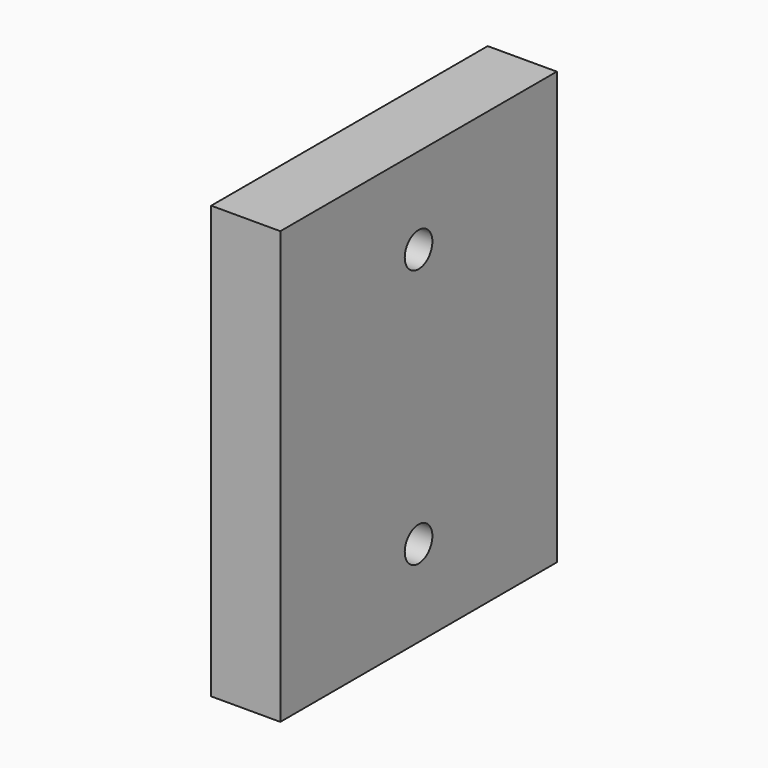
from build123d import *

# Parameters (mm, degrees)
CYLINDER029_R           = 2
CYLINDER029_DEPTH       = 8
CYLINDER029_PITCH_ANGLE = 90
ARRAY027_Z_COUNT        = 2
ARRAY027_Z_PITCH        = 30
BOX017_W                = 8
BOX017_H                = 40
BOX017_DEPTH            = 50


with BuildPart() as array027:
    # Cylinder029 → Cylinder029 (new body)
    with BuildSketch(Plane.XY):
        Circle(CYLINDER029_R)
    extrude(amount=CYLINDER029_DEPTH)


with BuildPart() as array027_1:
    # Cylinder029 pitch: moved
    add(array027.part.rotate(Axis((0, 0, 0), (0, 1, 0)), CYLINDER029_PITCH_ANGLE))


with BuildPart() as array027_2:
    # Cylinder029 placement: moved
    add(array027_1.part.moved(Location((144, -87, -14))))

    # Array027 Z: Array027 ×2


with BuildPart() as array027_3:
    add(array027_2.part)
    with Locations(*[(0, 0, -i * ARRAY027_Z_PITCH) for i in range(1, ARRAY027_Z_COUNT)]):
        add(array027_2.part)


with BuildPart() as case_2_con005:
    # Box017 → Box017 (new body)
    with BuildSketch(Plane(origin=(144, -107, -54), x_dir=(1, 0, 0), z_dir=(0, 0, 1))):
        with Locations((4, 20)):
            Rectangle(BOX017_W, BOX017_H)
    extrude(amount=BOX017_DEPTH)

    # Cut028: cut Array027
    add(array027_3.part, mode=Mode.SUBTRACT)


solid = case_2_con005.part
